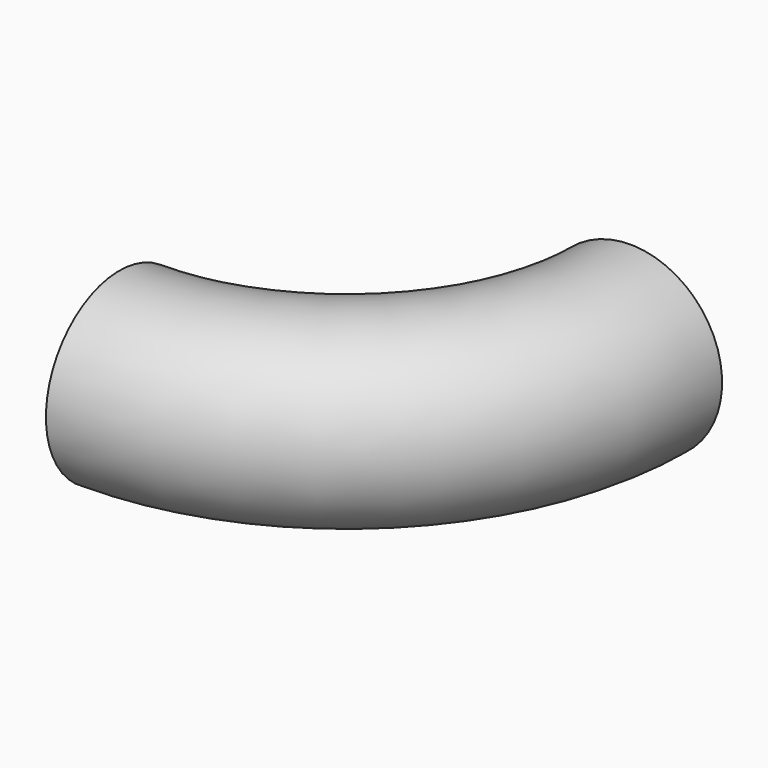
from build123d import *

# Parameters (mm, degrees)
F2_R   = 25.4
F2_R_2 = 23.296445127


with BuildPart() as f3:
    # F3: sweep along a path in F0
    with BuildLine(Plane.XY) as f3_path:
        ThreePointArc((0, -78.6436647177), (55.6094686192, -55.6094686192), (78.6436647177, 0))
    # F2 (on plane+point) → F3 (sweep)
    with BuildSketch(Plane.YZ):
        with Locations((-78.595388129, 0)):
            Circle(F2_R)
        with Locations((-78.595388129, 0)):
            Circle(F2_R_2, mode=Mode.SUBTRACT)
        with Locations((-78.595388129, 0)):
            Circle(F2_R_2)
    sweep(path=f3_path.line)


solid = f3.part
